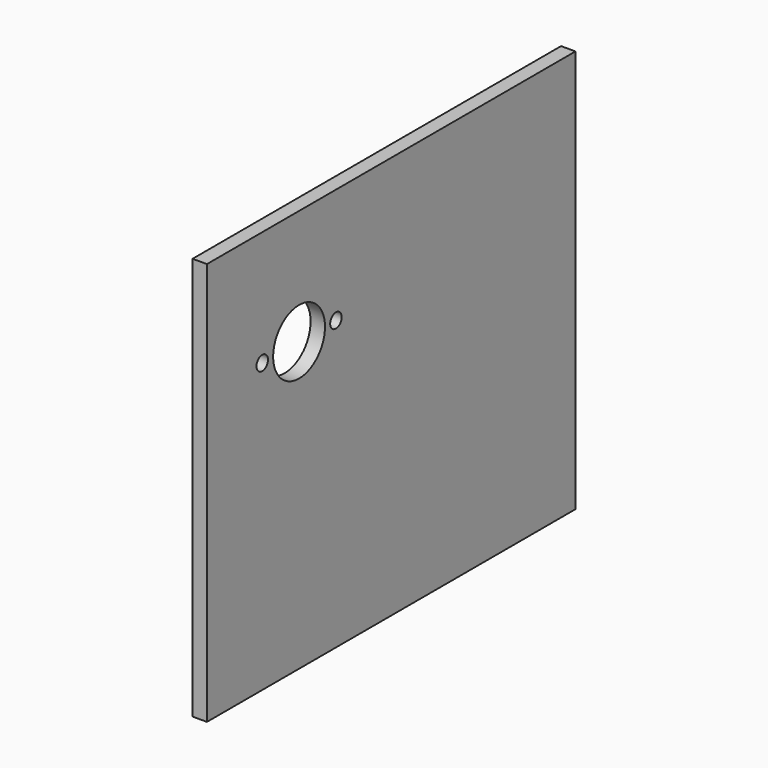
from build123d import *

# Parameters (mm, degrees)
F0_W     = 203.2
F0_H     = 177.8
F0_R     = 3.175
F0_R_2   = 14.2875
F1_DEPTH = 6.35


with BuildPart() as f1:
    # F0 (on Right) → F1 (new body)
    with BuildSketch(Plane.YZ):
        with Locations((101.6, 88.9)):
            Rectangle(F0_W, F0_H)
        with Locations((30.48, 127)):
            Circle(F0_R, mode=Mode.SUBTRACT)
        with Locations((50.8, 127)):
            Circle(F0_R_2, mode=Mode.SUBTRACT)
        with Locations((71.12, 127)):
            Circle(F0_R, mode=Mode.SUBTRACT)
    extrude(amount=F1_DEPTH)


solid = f1.part
